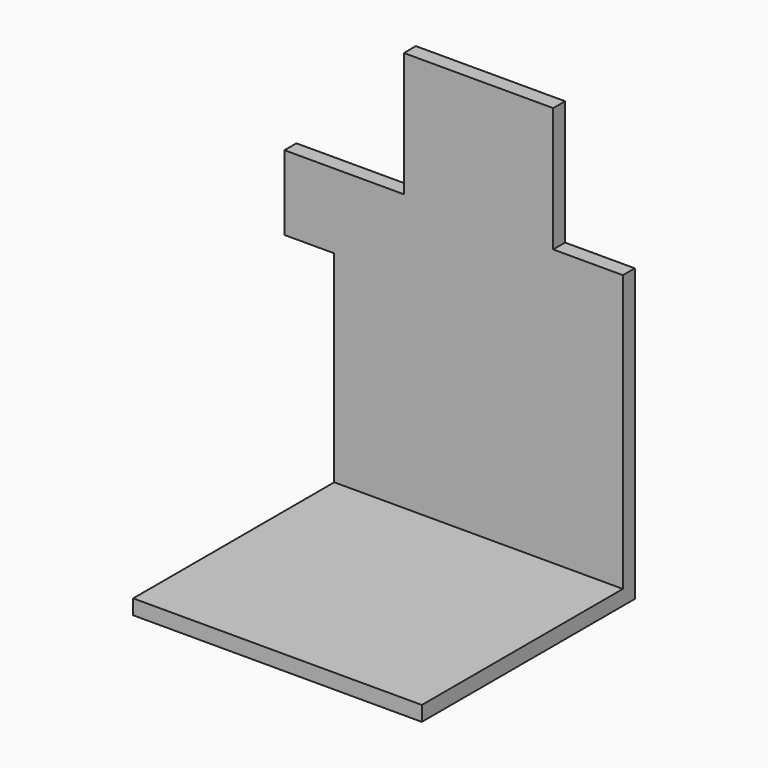
from build123d import *

# Parameters (mm, degrees)
BOX015001038_W     = 58
BOX015001038_H     = 53.5
BOX015001038_DEPTH = 3
BOX015001039_W     = 10
BOX015001039_H     = 3
BOX015001039_DEPTH = 15
BOX015001041_W     = 14
BOX015001041_H     = 10
BOX015001041_DEPTH = 25
BOX015001040_W     = 14
BOX015001040_H     = 10
BOX015001040_DEPTH = 25
BOX015001037_W     = 58
BOX015001037_H     = 3
BOX015001037_DEPTH = 80.5


with BuildPart() as cube034:
    # Box015001038 → Box015001038 (new body)
    with BuildSketch(Plane(origin=(0, -50.5, -3), x_dir=(1, 0, 0), z_dir=(0, 0, 1))):
        with Locations((29, 26.75)):
            Rectangle(BOX015001038_W, BOX015001038_H)
    extrude(amount=BOX015001038_DEPTH)


with BuildPart() as cube035:
    # Box015001039 → Box015001039 (new body)
    with BuildSketch(Plane(origin=(-10, 0, 40.5), x_dir=(1, 0, 0), z_dir=(0, 0, 1))):
        with Locations((5, 1.5)):
            Rectangle(BOX015001039_W, BOX015001039_H)
    extrude(amount=BOX015001039_DEPTH)


with BuildPart() as cube037:
    # Box015001041 → Box015001041 (new body)
    with BuildSketch(Plane(origin=(44, 0, 55.5), x_dir=(1, 0, 0), z_dir=(0, 0, 1))):
        with Locations((7, 5)):
            Rectangle(BOX015001041_W, BOX015001041_H)
    extrude(amount=BOX015001041_DEPTH)


with BuildPart() as cube036:
    # Box015001040 → Box015001040 (new body)
    with BuildSketch(Plane.XY.offset(55.5)):
        with Locations((7, 5)):
            Rectangle(BOX015001040_W, BOX015001040_H)
    extrude(amount=BOX015001040_DEPTH)


with BuildPart() as fusion001019007:
    # Box015001037 → Box015001037 (new body)
    with BuildSketch(Plane.XY):
        with Locations((29, 1.5)):
            Rectangle(BOX015001037_W, BOX015001037_H)
    extrude(amount=BOX015001037_DEPTH)

    # Cut003047: cut Cube036
    add(cube036.part, mode=Mode.SUBTRACT)

    # Cut003048: cut Cube037
    add(cube037.part, mode=Mode.SUBTRACT)

    # Fusion001019006: union Cube035
    add(cube035.part)

    # Fusion001019007: union Cube034
    add(cube034.part)


solid = fusion001019007.part
